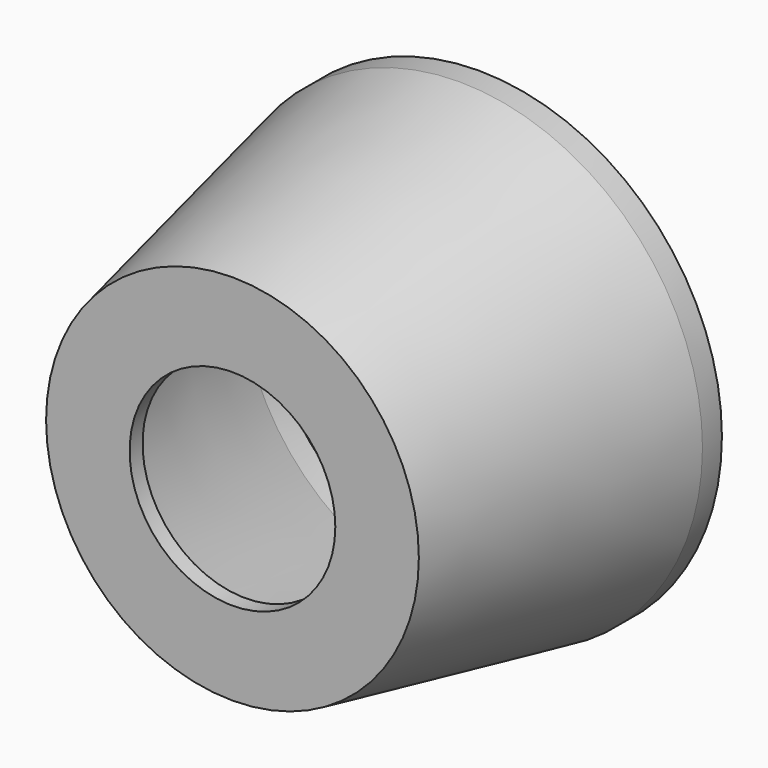
from build123d import *

# Parameters (mm, degrees)
F0_R      = 30
F0_R_2    = 27
F1_DEPTH  = 3
F4_R      = 30
F3_R      = 23
F7_R      = 20
F6_R      = 27
F9_R      = 22.403667
F9_R_2    = 12.693191
F10_DEPTH = 2


with BuildPart() as f1:
    # F0 (on Front) → F1 (new body)
    with BuildSketch(Plane.XZ):
        Circle(F0_R)
        Circle(F0_R_2, mode=Mode.SUBTRACT)
    extrude(amount=F1_DEPTH)

    # F4 (on face) → F5 section 0
    with BuildSketch(Plane.XZ.offset(3)):
        Circle(F4_R)
    # F3 (on offset) → F5 section 1
    with BuildSketch(Plane.XZ.offset(38)):
        Circle(F3_R)
    loft()

    # F7 (on face) → F8 section 0
    with BuildSketch(Plane.XZ.offset(38)):
        Circle(F7_R)
    # F6 (on face) → F8 section 1
    with BuildSketch(Plane(origin=(0, -3, 0), x_dir=(-1, 0, 0), z_dir=(0, 1, 0))):
        Circle(F6_R)
    loft(mode=Mode.SUBTRACT)

    # F9 (on face) → F10 (join)
    with BuildSketch(Plane.XZ.offset(38)):
        Circle(F9_R)
        Circle(F9_R_2, mode=Mode.SUBTRACT)
    extrude(amount=-F10_DEPTH)


solid = f1.part
